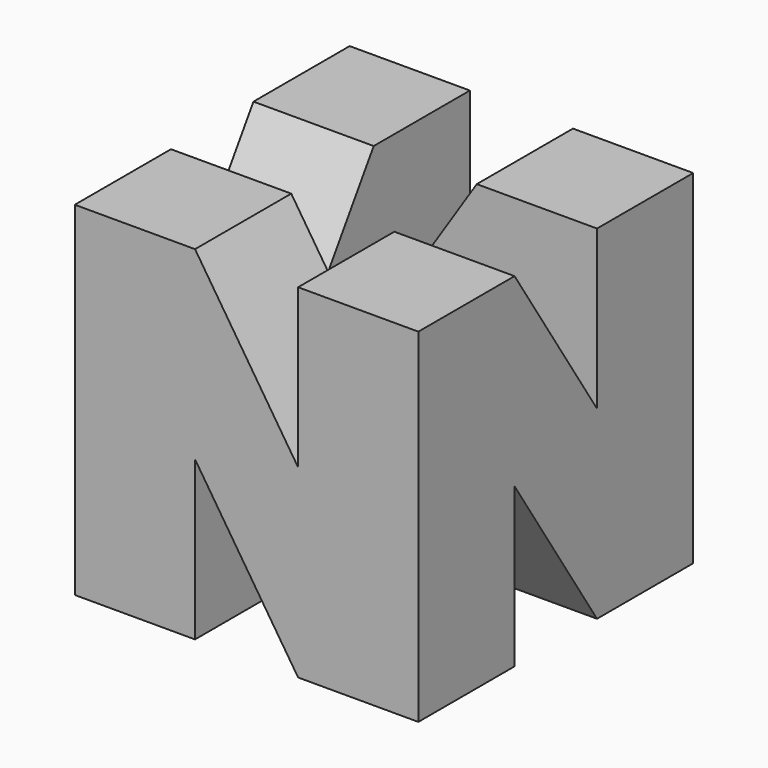
from build123d import *

# Parameters (mm, degrees)
F2_W = 35
F2_H = 35
F0_W = 35
F0_H = 35


with BuildPart() as f3:
    # F2 (on offset) → F3 section 0
    with BuildSketch(Plane.XY.offset(100)):
        with Locations((-32.5, -32.5)):
            Rectangle(F2_W, F2_H)
    # F0 (on Top) → F3 section 1
    with BuildSketch(Plane.XY):
        with Locations((-32.5, -32.5)):
            Rectangle(F0_W, F0_H)
    loft()

    # F0 (on Top) → F4 section 0
    with BuildSketch(Plane.XY):
        with Locations((32.5, -32.5)):
            Rectangle(F0_W, F0_H)
    # F2 (on offset) → F4 section 1
    with BuildSketch(Plane.XY.offset(100)):
        with Locations((-32.5, -32.5)):
            Rectangle(F2_W, F2_H)
    loft()

    # F0 (on Top) → F5 section 0
    with BuildSketch(Plane.XY):
        with Locations((32.5, -32.5)):
            Rectangle(F0_W, F0_H)
    # F2 (on offset) → F5 section 1
    with BuildSketch(Plane.XY.offset(100)):
        with Locations((32.5, -32.5)):
            Rectangle(F2_W, F2_H)
    loft()



with BuildPart() as f6:
    # F0 (on Top) → F6 section 0
    with BuildSketch(Plane.XY):
        with Locations((32.5, 32.5)):
            Rectangle(F0_W, F0_H)
    # F2 (on offset) → F6 section 1
    with BuildSketch(Plane.XY.offset(100)):
        with Locations((32.5, 32.5)):
            Rectangle(F2_W, F2_H)
    loft()


with BuildPart() as f3_1:
    add(f3.part)

    add(f6.part)  # F7 merges F6
    # F0 (on Top) → F7 section 0
    with BuildSketch(Plane.XY):
        with Locations((32.5, 32.5)):
            Rectangle(F0_W, F0_H)
    # F2 (on offset) → F7 section 1
    with BuildSketch(Plane.XY.offset(100)):
        with Locations((32.5, -32.5)):
            Rectangle(F2_W, F2_H)
    loft()

    # F2 (on offset) → F8 section 0
    with BuildSketch(Plane.XY.offset(100)):
        with Locations((32.5, 32.5)):
            Rectangle(F2_W, F2_H)
    # F0 (on Top) → F8 section 1
    with BuildSketch(Plane.XY):
        with Locations((-32.5, 32.5)):
            Rectangle(F0_W, F0_H)
    loft()

    # F2 (on offset) → F9 section 0
    with BuildSketch(Plane.XY.offset(100)):
        with Locations((-32.5, 32.5)):
            Rectangle(F2_W, F2_H)
    # F0 (on Top) → F9 section 1
    with BuildSketch(Plane.XY):
        with Locations((-32.5, 32.5)):
            Rectangle(F0_W, F0_H)
    loft()

    # F2 (on offset) → F10 section 0
    with BuildSketch(Plane.XY.offset(100)):
        with Locations((-32.5, 32.5)):
            Rectangle(F2_W, F2_H)
    # F0 (on Top) → F10 section 1
    with BuildSketch(Plane.XY):
        with Locations((-32.5, -32.5)):
            Rectangle(F0_W, F0_H)
    loft()


solid = f3_1.part
